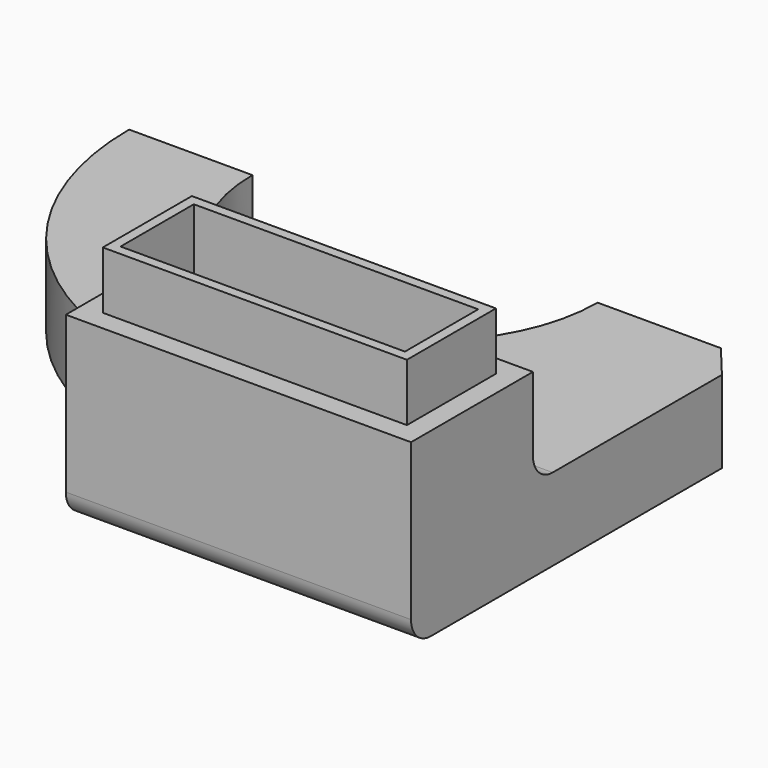
from build123d import *

# Parameters (mm, degrees)
F1_ANGLE  = 180
F3_DEPTH  = 10
F5_DEPTH  = 12
F6_W      = 37
F6_H      = 13.54
F7_DEPTH  = 7
F8_T      = -1.2
F11_R     = 1.5
F12_DEPTH = 25
F13_COUNT = 18
F14_R     = 3


with BuildPart() as f1:
    # F0 (on Front) → F1 (revolve)
    with BuildSketch(Plane.XZ):
        Polygon((36, 10), (21, 10), (21, 5), (26, 0), (36, 0), align=None)
    revolve(axis=Axis((0, 0, 4.7696232796), (0, 0, -1)), revolution_arc=F1_ANGLE)

    # F2 (on Top) → F3 (join, through all)
    with BuildSketch(Plane.XY):
        with BuildLine():
            Line((-2.5, -30.899029111), (-2.5, -51.5))
            Line((-2.5, -51.5), (39.5, -51.5))
            Line((39.5, -51.5), (39.5, -4.2194730081))
            Line((39.5, -4.2194730081), (36, 0))
            Line((36, 0), (31, 0))
            ThreePointArc((31, 0), (21.017849557, -22.7870577302), (-2.5, -30.899029111))
        make_face()
    extrude(amount=F3_DEPTH)

    # F4 (on face) → F5 (join)
    with BuildSketch(Plane.XY.offset(10)):
        Polygon((-2.5, -35.9130895357), (-2.5, -51.5), (39.5, -51.5), (39.5, -32.96), (-2.5, -32.96), align=None)
    extrude(amount=F5_DEPTH)

    # F6 (on face) → F7 (join)
    with BuildSketch(Plane.XY.offset(22)):
        with Locations((18.5, -42.23)):
            Rectangle(F6_W, F6_H)
    extrude(amount=F7_DEPTH)

    # F8
    f8_openings = [f1.faces().sort_by_distance(p)[0] for p in [
        (18.5, -42.23, 29),
    ]]
    offset(amount=F8_T, openings=f8_openings, kind=Kind.INTERSECTION)

    # F13: F12 ×18 about axis
    f13_axis = Axis((0, 0, 4.7696232796), (0, 0, -1))


with BuildPart() as f12:
    # F11 (on line) → F12 (new body)
    with BuildSketch(Plane(origin=(0, 0, 0), x_dir=(1, 0, 0), z_dir=(0, -0.7071067812, 0.7071067812))):
        with Locations((0, -14.8492424049)):
            Circle(F11_R)
    extrude(amount=F12_DEPTH)


with BuildPart() as f1_1:
    add(f1.part)
    for i in range(1, F13_COUNT):
        add(f12.part.rotate(f13_axis, i * 360 / F13_COUNT), mode=Mode.SUBTRACT)

    # F13#seed: cut F12
    add(f12.part, mode=Mode.SUBTRACT)

    # F14
    f14_edges = [f1_1.edges().sort_by_distance(p)[0] for p in [
        (18.5, -51.5, 0),
        (18.5, -50.3, 1.2),
        (18.5, -34.16, 8.8),
        (18.5, -32.96, 10),
        (-2.5, -35.91309, 5),
    ]]
    fillet(f14_edges, radius=F14_R)


solid = f1_1.part
